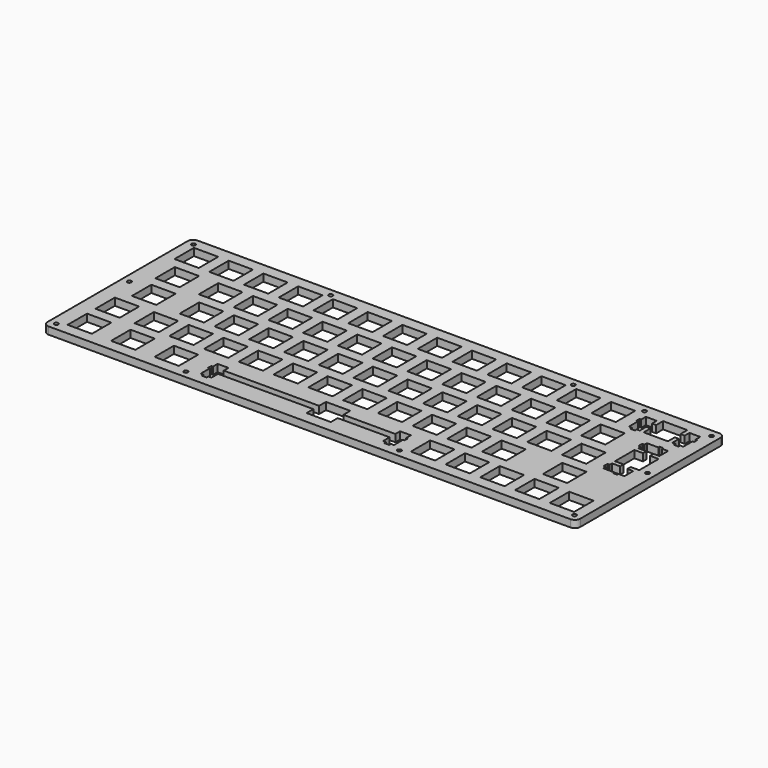
from build123d import *

# Parameters (mm, degrees)
F0_R     = 1.1
F1_DEPTH = 4
F2_W     = 13.30082
F2_H     = 13.30079
F2_W_2   = 13.2992
F2_W_3   = 13.3008
F2_W_4   = 13.301
F2_H_2   = 13.3008
F2_W_5   = 13.2993
F2_W_6   = 13.2994
F2_W_7   = 13.299
F2_W_8   = 13.29947
F2_H_3   = 13.2994
F2_W_9   = 13.3007
F2_W_10  = 13.3
F2_W_11  = 13.30088
F2_W_12  = 13.3022
F2_W_13  = 13.2998
F3_DEPTH = 4.001


with BuildPart() as f1:
    # F0 (on Top) → F1 (new body)
    with BuildSketch(Plane.XY):
        with BuildLine():
            Line((143, 51), (-143, 51))
            ThreePointArc((-143, 51), (-145.12132, 50.12132), (-146, 48))
            Line((-146, 48), (-146, -48))
            ThreePointArc((-146, -48), (-145.12132, -50.12132), (-143, -51))
            Line((-143, -51), (143, -51))
            ThreePointArc((143, -51), (145.12132, -50.12132), (146, -48))
            Line((146, -48), (146, 48))
            ThreePointArc((146, 48), (145.12132, 50.12132), (143, 51))
        make_face()
        with Locations((-142, -47)):
            Circle(F0_R, mode=Mode.SUBTRACT)
        with Locations((-71, -47)):
            Circle(F0_R, mode=Mode.SUBTRACT)
        with Locations((46, -47)):
            Circle(F0_R, mode=Mode.SUBTRACT)
        with Locations((142, -47)):
            Circle(F0_R, mode=Mode.SUBTRACT)
        with Locations((-142, 3)):
            Circle(F0_R, mode=Mode.SUBTRACT)
        with Locations((-142, 47)):
            Circle(F0_R, mode=Mode.SUBTRACT)
        with Locations((-66.825, 47)):
            Circle(F0_R, mode=Mode.SUBTRACT)
        with Locations((142, 3)):
            Circle(F0_R, mode=Mode.SUBTRACT)
        with Locations((66.175, 47)):
            Circle(F0_R, mode=Mode.SUBTRACT)
        with Locations((105.175, 47)):
            Circle(F0_R, mode=Mode.SUBTRACT)
        with Locations((142, 47)):
            Circle(F0_R, mode=Mode.SUBTRACT)
    extrude(amount=F1_DEPTH)

    # F2 (on face) → F3 (cut, through all)
    with BuildSketch(Plane.XY.offset(4)):
        Polygon((-6.65, -36.150199), (-18.556853, -36.150199), (-58.931953, -36.150199), (-58.931953, -32.919999), (-64.882253, -32.919999), (-64.882253, -36.150199), (-65.757453, -36.150199), (-65.757453, -38.250289), (-64.882253, -38.250289), (-64.882253, -44.520349), (-63.206553, -44.520349), (-63.206553, -45.720629), (-60.607653, -45.720629), (-60.607653, -44.520349), (-58.931953, -44.520349), (-58.931953, -40.049989), (-18.556853, -40.049989), (-6.65, -40.049989), (-6.65, -44.75), (-5.257853, -44.75), (6.65, -44.75), (6.65, -40.049989), (35.118147, -40.049989), (35.118147, -44.520349), (36.793147, -44.520349), (36.793147, -45.720629), (39.392147, -45.720629), (39.392147, -44.520349), (41.068147, -44.520349), (41.068147, -38.250289), (41.943147, -38.250289), (41.943147, -36.150199), (41.068147, -36.150199), (41.068147, -32.919999), (35.118147, -32.919999), (35.118147, -36.150199), (6.65, -36.150199), (6.65, -31.45), (-5.257853, -31.45), (-6.65, -31.45), align=None)
        with Locations((-130.968863, -38.100094)):
            Rectangle(F2_W, F2_H)
        with Locations((-107.157153, -38.100094)):
            Rectangle(F2_W_2, F2_H)
        with Locations((-83.343953, -38.100094)):
            Rectangle(F2_W_3, F2_H)
        with Locations((57.149647, -38.100094)):
            Rectangle(F2_W_4, F2_H)
        with Locations((76.199647, -38.100094)):
            Rectangle(F2_W_4, F2_H)
        with Locations((95.249647, -38.100094)):
            Rectangle(F2_W_4, F2_H)
        with Locations((114.299647, -38.100094)):
            Rectangle(F2_W_4, F2_H)
        with Locations((133.349647, -38.100094)):
            Rectangle(F2_W_4, F2_H)
        with Locations((-130.968863, -19.050099)):
            Rectangle(F2_W, F2_H_2)
        with Locations((-109.538403, -19.050099)):
            Rectangle(F2_W_5, F2_H_2)
        with Locations((-90.488453, -19.050099)):
            Rectangle(F2_W_6, F2_H_2)
        with Locations((-71.438453, -19.050099)):
            Rectangle(F2_W_6, F2_H_2)
        with Locations((-52.388453, -19.050099)):
            Rectangle(F2_W_6, F2_H_2)
        with Locations((-33.338353, -19.050099)):
            Rectangle(F2_W_7, F2_H_2)
        with Locations((-14.288353, -19.050099)):
            Rectangle(F2_W_7, F2_H_2)
        with Locations((4.761647, -19.050099)):
            Rectangle(F2_W_7, F2_H_2)
        with Locations((23.811647, -19.050099)):
            Rectangle(F2_W_7, F2_H_2)
        with Locations((42.861647, -19.050099)):
            Rectangle(F2_W_7, F2_H_2)
        with Locations((61.911647, -19.050099)):
            Rectangle(F2_W_7, F2_H_2)
        with Locations((80.961647, -19.050099)):
            Rectangle(F2_W_7, F2_H_2)
        with Locations((114.299647, -19.050099)):
            Rectangle(F2_W_4, F2_H_2)
        with Locations((-126.207053, -9.9e-05)):
            Rectangle(F2_W_6, F2_H_2)
        with Locations((-100.013453, -9.9e-05)):
            Rectangle(F2_W_6, F2_H_2)
        with Locations((-80.963453, -9.9e-05)):
            Rectangle(F2_W_6, F2_H_2)
        with Locations((-61.913453, -9.9e-05)):
            Rectangle(F2_W_6, F2_H_2)
        with Locations((-42.863503, -9.9e-05)):
            Rectangle(F2_W_5, F2_H_2)
        with Locations((-23.813353, -9.9e-05)):
            Rectangle(F2_W_7, F2_H_2)
        with Locations((-4.763353, -9.9e-05)):
            Rectangle(F2_W_7, F2_H_2)
        with Locations((14.286647, -9.9e-05)):
            Rectangle(F2_W_7, F2_H_2)
        with Locations((33.336647, -9.9e-05)):
            Rectangle(F2_W_7, F2_H_2)
        with Locations((52.386647, -9.9e-05)):
            Rectangle(F2_W_7, F2_H_2)
        with Locations((71.436647, -9.9e-05)):
            Rectangle(F2_W_7, F2_H_2)
        with Locations((90.486647, -9.9e-05)):
            Rectangle(F2_W_7, F2_H_2)
        with Locations((109.536647, -9.9e-05)):
            Rectangle(F2_W_7, F2_H_2)
        Polygon((132.918147, 25.325701), (130.818147, 25.325701), (130.818147, 24.450401), (124.548147, 24.450401), (124.548147, 22.776101), (123.348147, 22.776101), (123.348147, 20.174401), (124.548147, 20.174401), (124.548147, 18.501501), (129.017147, 18.501501), (129.017147, 16.175301), (124.318147, 16.175301), (124.318147, 2.875901), (129.017147, 2.875901), (129.017147, 0.549701), (124.548147, 0.549701), (124.548147, -1.124599), (123.348147, -1.124599), (123.348147, -3.723499), (124.548147, -3.723499), (124.548147, -5.399199), (130.818147, -5.399199), (130.818147, -6.274399), (132.918147, -6.274399), (132.918147, -5.399199), (136.147147, -5.399199), (136.147147, 0.549701), (132.918147, 0.549701), (132.918147, 2.875901), (137.617147, 2.875901), (137.617147, 16.175301), (132.918147, 16.175301), (132.918147, 18.501501), (136.147147, 18.501501), (136.147147, 24.450401), (132.918147, 24.450401), align=None)
        with Locations((-128.588288, 19.050601)):
            Rectangle(F2_W_8, F2_H_3)
        with Locations((-104.775203, 19.050601)):
            Rectangle(F2_W_9, F2_H_3)
        with Locations((-85.725253, 19.050601)):
            Rectangle(F2_W_3, F2_H_3)
        with Locations((-66.675253, 19.050601)):
            Rectangle(F2_W_3, F2_H_3)
        with Locations((-47.625253, 19.050601)):
            Rectangle(F2_W_3, F2_H_3)
        with Locations((-28.575353, 19.050601)):
            Rectangle(F2_W_4, F2_H_3)
        with Locations((-9.525353, 19.050601)):
            Rectangle(F2_W_4, F2_H_3)
        with Locations((9.524647, 19.050601)):
            Rectangle(F2_W_4, F2_H_3)
        with Locations((28.574647, 19.050601)):
            Rectangle(F2_W_4, F2_H_3)
        with Locations((47.624647, 19.050601)):
            Rectangle(F2_W_4, F2_H_3)
        with Locations((66.674647, 19.050601)):
            Rectangle(F2_W_4, F2_H_3)
        with Locations((85.724647, 19.050601)):
            Rectangle(F2_W_4, F2_H_3)
        with Locations((104.774147, 19.050601)):
            Rectangle(F2_W_10, F2_H_3)
        Polygon((130.475147, 44.750301), (117.174147, 44.750301), (117.174147, 40.049901), (114.849147, 40.049901), (114.849147, 43.279901), (108.899147, 43.279901), (108.899147, 40.049901), (108.024147, 40.049901), (108.024147, 37.949801), (108.899147, 37.949801), (108.899147, 31.679501), (110.575147, 31.679501), (110.575147, 30.479401), (113.174147, 30.479401), (113.174147, 31.679501), (114.849147, 31.679501), (114.849147, 36.149901), (117.174147, 36.149901), (117.174147, 31.449501), (130.475147, 31.449501), (130.475147, 36.149901), (132.800147, 36.149901), (132.800147, 31.679501), (134.474147, 31.679501), (134.474147, 30.479401), (137.074147, 30.479401), (137.074147, 31.679501), (138.750147, 31.679501), (138.750147, 37.949801), (139.625147, 37.949801), (139.625147, 40.049901), (138.750147, 40.049901), (138.750147, 43.279901), (132.800147, 43.279901), (132.800147, 40.049901), (130.475147, 40.049901), align=None)
        with Locations((-133.350093, 38.099901)):
            Rectangle(F2_W_11, F2_H_2)
        with Locations((-114.300903, 38.099901)):
            Rectangle(F2_W_5, F2_H_2)
        with Locations((-95.250953, 38.099901)):
            Rectangle(F2_W_6, F2_H_2)
        with Locations((-76.200953, 38.099901)):
            Rectangle(F2_W_12, F2_H_2)
        with Locations((-57.150253, 38.099901)):
            Rectangle(F2_W_3, F2_H_2)
        with Locations((-38.100753, 38.099901)):
            Rectangle(F2_W_13, F2_H_2)
        with Locations((-19.050353, 38.099901)):
            Rectangle(F2_W_4, F2_H_2)
        with Locations((-0.000353, 38.099901)):
            Rectangle(F2_W_4, F2_H_2)
        with Locations((19.049647, 38.099901)):
            Rectangle(F2_W_4, F2_H_2)
        with Locations((38.099647, 38.099901)):
            Rectangle(F2_W_4, F2_H_2)
        with Locations((57.149647, 38.099901)):
            Rectangle(F2_W_4, F2_H_2)
        with Locations((76.199647, 38.099901)):
            Rectangle(F2_W_4, F2_H_2)
        with Locations((95.249647, 38.099901)):
            Rectangle(F2_W_4, F2_H_2)
    extrude(amount=-F3_DEPTH, mode=Mode.SUBTRACT)


solid = f1.part
